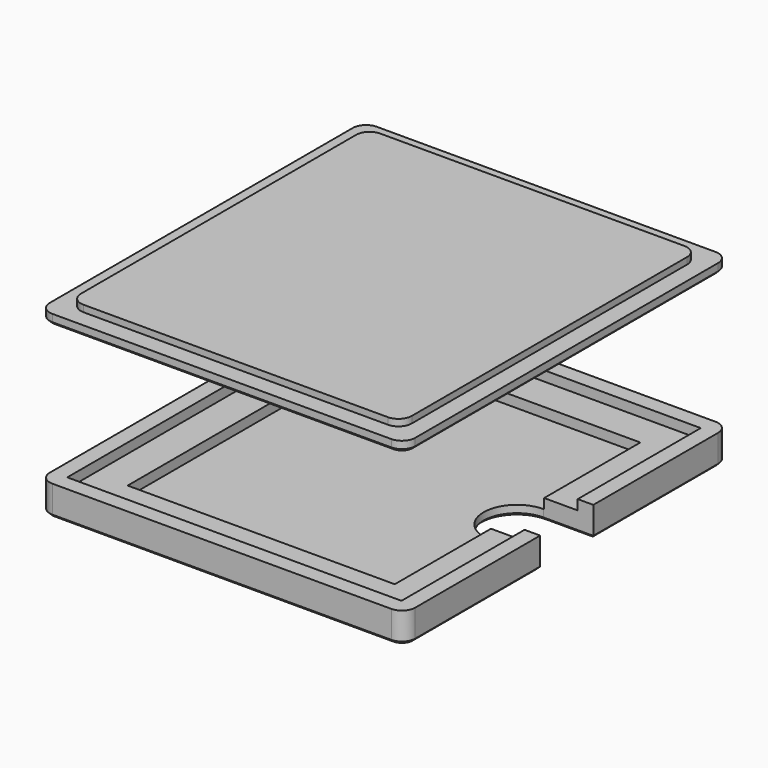
from build123d import *

# Parameters (mm, degrees)
SKETCH_W        = 55
SKETCH_H        = 61
PAD_DEPTH       = 4.5
SKETCH001_W     = 50.3
SKETCH001_H     = 56.3
POCKET_DEPTH    = 1.5
SKETCH002_W     = 40.2
SKETCH002_H     = 46.2
POCKET001_DEPTH = 1.5
POCKET002_DEPTH = 4.501
FILLET_R        = 2
CHAMFER_SIZE    = 0.4
SKETCH004_W     = 55
SKETCH004_H     = 61
PAD001_DEPTH    = 1.5
SKETCH005_W     = 49.8
SKETCH005_H     = 55.8
PAD002_DEPTH    = 1
FILLET001_R     = 2
CHAMFER001_SIZE = 0.4


with BuildPart() as bottom:
    # Sketch → Pad (new body)
    with BuildSketch(Plane.XY):
        Rectangle(SKETCH_W, SKETCH_H)
    extrude(amount=PAD_DEPTH)

    # Sketch001 (on Face6 of Pad) → Pocket (cut)
    with BuildSketch(Plane.XY.offset(4.5)):
        Rectangle(SKETCH001_W, SKETCH001_H)
    extrude(amount=-POCKET_DEPTH, mode=Mode.SUBTRACT)

    # Sketch002 (on Face11 of Pocket) → Pocket001 (cut)
    with BuildSketch(Plane.XY.offset(3)):
        Rectangle(SKETCH002_W, SKETCH002_H)
    extrude(amount=-POCKET001_DEPTH, mode=Mode.SUBTRACT)

    # Sketch003 (on Face5 of Pocket001) → Pocket002 (cut, through all)
    with BuildSketch(Plane.XY.offset(4.5)):
        with BuildLine():
            ThreePointArc((20, 5), (15, 0), (20, -5))
            Line((20, -5), (35, -5))
            ThreePointArc((35, -5), (40, 0), (35, 5))
            Line((35, 5), (20, 5))
        make_face()
    extrude(amount=-POCKET002_DEPTH, mode=Mode.SUBTRACT)

    # Fillet
    fillet_edges = [bottom.edges().sort_by_distance(p)[0] for p in [
        (-27.5, -30.5, 2.25),
        (27.5, -30.5, 2.25),
        (27.5, 30.5, 2.25),
        (-27.5, 30.5, 2.25),
    ]]
    fillet(fillet_edges, radius=FILLET_R)

    # Chamfer
    chamfer_edges = [bottom.edges().sort_by_distance(p)[0] for p in [
        (0, 30.5, 0),
        (-26.914214, 29.914214, 0),
        (26.914214, 29.914214, 0),
        (-27.5, 0, 0),
        (27.5, 16.75, 0),
        (-26.914214, -29.914214, 0),
        (23.75, 5, 0),
        (0, -30.5, 0),
        (15, 0, 0),
        (26.914214, -29.914214, 0),
        (23.75, -5, 0),
        (27.5, -16.75, 0),
    ]]
    chamfer(chamfer_edges, length=CHAMFER_SIZE)


with BuildPart() as top:
    # Sketch004 → Pad001 (new body)
    with BuildSketch(Plane.XY):
        Rectangle(SKETCH004_W, SKETCH004_H)
    extrude(amount=PAD001_DEPTH)

    # Sketch005 (on Face6 of Pad001) → Pad002 (join)
    with BuildSketch(Plane.XY.offset(1.5)):
        Rectangle(SKETCH005_W, SKETCH005_H)
    extrude(amount=PAD002_DEPTH)

    # Fillet001
    fillet001_edges = [top.edges().sort_by_distance(p)[0] for p in [
        (-27.5, -30.5, 0.75),
        (-24.9, -27.9, 2),
        (24.9, -27.9, 2),
        (27.5, -30.5, 0.75),
        (24.9, 27.9, 2),
        (27.5, 30.5, 0.75),
        (-24.9, 27.9, 2),
        (-27.5, 30.5, 0.75),
    ]]
    fillet(fillet001_edges, radius=FILLET001_R)

    # Chamfer001
    chamfer001_edges = [top.edges().sort_by_distance(p)[0] for p in [
        (0, 30.5, 0),
        (-26.914214, 29.914214, 0),
        (26.914214, 29.914214, 0),
        (-27.5, 0, 0),
        (27.5, 0, 0),
        (-26.914214, -29.914214, 0),
        (26.914214, -29.914214, 0),
        (0, -30.5, 0),
    ]]
    chamfer(chamfer001_edges, length=CHAMFER001_SIZE)


with BuildPart() as top_1:
    # Body001 placement: moved
    add(top.part.moved(Location((0, 0, 25.5))))


solid = Compound([bottom.part, top_1.part])
